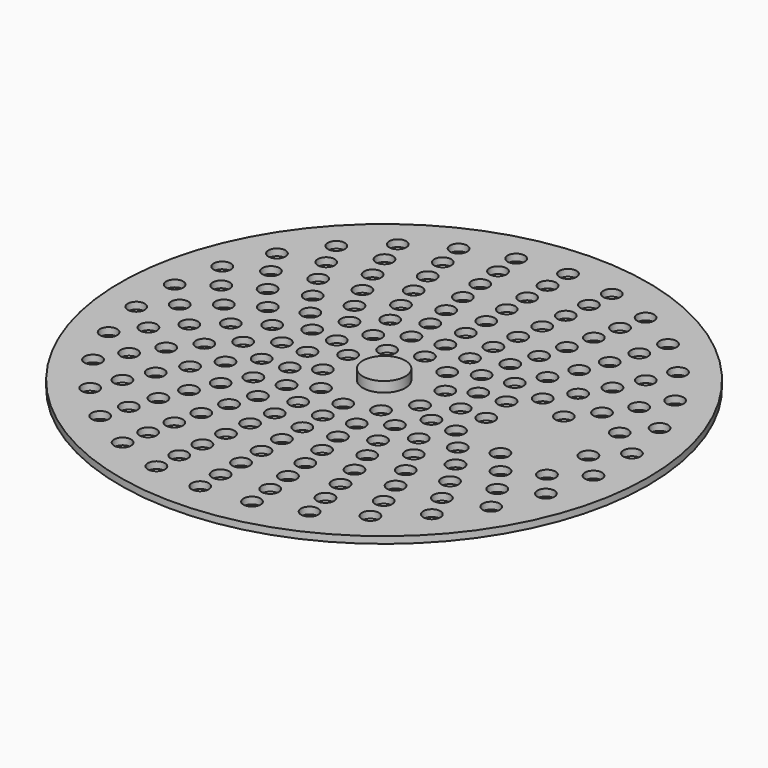
from build123d import *

# Parameters (mm, degrees)
F0_R     = 15.5
F0_R_2   = 0.5
F0_R_3   = 1.25
F1_DEPTH = 0.4
F3_DEPTH = 1


with BuildPart() as f1:
    # F0 (on Top) → F1 (new body)
    with BuildSketch(Plane.XY):
        Circle(F0_R)
        with Locations((-7.935101, -10.921729)):
            Circle(F0_R_2, mode=Mode.SUBTRACT)
        with Locations((-10.032455, -9.033263)):
            Circle(F0_R_2, mode=Mode.SUBTRACT)
        with Locations((-5.490945, -12.332864)):
            Circle(F0_R_2, mode=Mode.SUBTRACT)
        with Locations((-2.806808, -13.204993)):
            Circle(F0_R_2, mode=Mode.SUBTRACT)
        with Locations((-2.670251, -11.699135)):
            Circle(F0_R_2, mode=Mode.SUBTRACT)
        with Locations((-5.206605, -10.811626)):
            Circle(F0_R_2, mode=Mode.SUBTRACT)
        with Locations((-7.481878, -9.381978)):
            Circle(F0_R_2, mode=Mode.SUBTRACT)
        with Locations((-6.962788, -7.859363)):
            Circle(F0_R_2, mode=Mode.SUBTRACT)
        with Locations((-4.879593, -9.297288)):
            Circle(F0_R_2, mode=Mode.SUBTRACT)
        with Locations((-4.5, -7.794229)):
            Circle(F0_R_2, mode=Mode.SUBTRACT)
        with Locations((-2.512814, -10.194889)):
            Circle(F0_R_2, mode=Mode.SUBTRACT)
        with Locations((-2.329371, -8.693332)):
            Circle(F0_R_2, mode=Mode.SUBTRACT)
        with Locations((-11.691343, -6.75)):
            Circle(F0_R_2, mode=Mode.SUBTRACT)
        with Locations((-12.839263, -4.171729)):
            Circle(F0_R_2, mode=Mode.SUBTRACT)
        with Locations((-9.381978, -7.481878)):
            Circle(F0_R_2, mode=Mode.SUBTRACT)
        with Locations((-8.641331, -5.96468)):
            Circle(F0_R_2, mode=Mode.SUBTRACT)
        with Locations((-10.811626, -5.206605)):
            Circle(F0_R_2, mode=Mode.SUBTRACT)
        with Locations((-7.794229, -4.5)):
            Circle(F0_R_2, mode=Mode.SUBTRACT)
        with Locations((-11.699135, -2.670251)):
            Circle(F0_R_2, mode=Mode.SUBTRACT)
        with Locations((-13.426046, -1.411134)):
            Circle(F0_R_2, mode=Mode.SUBTRACT)
        with Locations((-9.817671, -3.723351)):
            Circle(F0_R_2, mode=Mode.SUBTRACT)
        with Locations((-8.693332, -2.329371)):
            Circle(F0_R_2, mode=Mode.SUBTRACT)
        with Locations((-10.423443, -1.265635)):
            Circle(F0_R_2, mode=Mode.SUBTRACT)
        with Locations((-6.363961, -6.363961)):
            Circle(F0_R_2, mode=Mode.SUBTRACT)
        with Locations((-4.054806, -6.309401)):
            Circle(F0_R_2, mode=Mode.SUBTRACT)
        with Locations((-5.668122, -4.911456)):
            Circle(F0_R_2, mode=Mode.SUBTRACT)
        with Locations((-2.112994, -7.196197)):
            Circle(F0_R_2, mode=Mode.SUBTRACT)
        with Locations((-3.526712, -4.854102)):
            Circle(F0_R_2, mode=Mode.SUBTRACT)
        with Locations((-1.854102, -5.706339)):
            Circle(F0_R_2, mode=Mode.SUBTRACT)
        with Locations((-1.722075, -4.157458)):
            Circle(F0_R_2, mode=Mode.SUBTRACT)
        with Locations((-6.82224, -3.115613)):
            Circle(F0_R_2, mode=Mode.SUBTRACT)
        with Locations((-4.854102, -3.526712)):
            Circle(F0_R_2, mode=Mode.SUBTRACT)
        with Locations((-7.423661, -1.067361)):
            Circle(F0_R_2, mode=Mode.SUBTRACT)
        with Locations((-5.706339, -1.854102)):
            Circle(F0_R_2, mode=Mode.SUBTRACT)
        with Locations((-4.157458, -1.722075)):
            Circle(F0_R_2, mode=Mode.SUBTRACT)
        with Locations((-3.181981, -3.181981)):
            Circle(F0_R_2, mode=Mode.SUBTRACT)
        with Locations((-1.763356, -2.427051)):
            Circle(F0_R_2, mode=Mode.SUBTRACT)
        with Locations((-2.85317, -0.927051)):
            Circle(F0_R_2, mode=Mode.SUBTRACT)
        with Locations((0, -13.5)):
            Circle(F0_R_2, mode=Mode.SUBTRACT)
        with Locations((0, -12)):
            Circle(F0_R_2, mode=Mode.SUBTRACT)
        with Locations((2.806808, -13.204993)):
            Circle(F0_R_2, mode=Mode.SUBTRACT)
        with Locations((2.670251, -11.699135)):
            Circle(F0_R_2, mode=Mode.SUBTRACT)
        with Locations((5.490945, -12.332864)):
            Circle(F0_R_2, mode=Mode.SUBTRACT)
        with Locations((0, -10.5)):
            Circle(F0_R_2, mode=Mode.SUBTRACT)
        with Locations((2.512814, -10.194889)):
            Circle(F0_R_2, mode=Mode.SUBTRACT)
        with Locations((0, -9)):
            Circle(F0_R_2, mode=Mode.SUBTRACT)
        with Locations((2.329371, -8.693332)):
            Circle(F0_R_2, mode=Mode.SUBTRACT)
        with Locations((5.206605, -10.811626)):
            Circle(F0_R_2, mode=Mode.SUBTRACT)
        with Locations((4.879593, -9.297288)):
            Circle(F0_R_2, mode=Mode.SUBTRACT)
        with Locations((4.5, -7.794229)):
            Circle(F0_R_2, mode=Mode.SUBTRACT)
        with Locations((7.481878, -9.381978)):
            Circle(F0_R_2, mode=Mode.SUBTRACT)
        with Locations((6.962788, -7.859363)):
            Circle(F0_R_2, mode=Mode.SUBTRACT)
        with Locations((7.935101, -10.921729)):
            Circle(F0_R_2, mode=Mode.SUBTRACT)
        with Locations((10.032455, -9.033263)):
            Circle(F0_R_2, mode=Mode.SUBTRACT)
        with Locations((0, -7.5)):
            Circle(F0_R_2, mode=Mode.SUBTRACT)
        with Locations((0, -6)):
            Circle(F0_R_2, mode=Mode.SUBTRACT)
        with Locations((2.112994, -7.196197)):
            Circle(F0_R_2, mode=Mode.SUBTRACT)
        with Locations((1.854102, -5.706339)):
            Circle(F0_R_2, mode=Mode.SUBTRACT)
        with Locations((0, -4.5)):
            Circle(F0_R_2, mode=Mode.SUBTRACT)
        with Locations((1.722075, -4.157458)):
            Circle(F0_R_2, mode=Mode.SUBTRACT)
        with Locations((3.526712, -4.854102)):
            Circle(F0_R_2, mode=Mode.SUBTRACT)
        with Locations((4.054806, -6.309401)):
            Circle(F0_R_2, mode=Mode.SUBTRACT)
        with Locations((6.363961, -6.363961)):
            Circle(F0_R_2, mode=Mode.SUBTRACT)
        with Locations((5.668122, -4.911456)):
            Circle(F0_R_2, mode=Mode.SUBTRACT)
        with Locations((0, -3)):
            Circle(F0_R_2, mode=Mode.SUBTRACT)
        with Locations((1.763356, -2.427051)):
            Circle(F0_R_2, mode=Mode.SUBTRACT)
        with Locations((3.181981, -3.181981)):
            Circle(F0_R_2, mode=Mode.SUBTRACT)
        with Locations((2.85317, -0.927051)):
            Circle(F0_R_2, mode=Mode.SUBTRACT)
        with Locations((4.854102, -3.526712)):
            Circle(F0_R_2, mode=Mode.SUBTRACT)
        with Locations((6.82224, -3.115613)):
            Circle(F0_R_2, mode=Mode.SUBTRACT)
        with Locations((4.157458, -1.722075)):
            Circle(F0_R_2, mode=Mode.SUBTRACT)
        with Locations((5.706339, -1.854102)):
            Circle(F0_R_2, mode=Mode.SUBTRACT)
        with Locations((9.381978, -7.481878)):
            Circle(F0_R_2, mode=Mode.SUBTRACT)
        with Locations((8.641331, -5.96468)):
            Circle(F0_R_2, mode=Mode.SUBTRACT)
        with Locations((7.794229, -4.5)):
            Circle(F0_R_2, mode=Mode.SUBTRACT)
        with Locations((10.811626, -5.206605)):
            Circle(F0_R_2, mode=Mode.SUBTRACT)
        with Locations((11.691343, -6.75)):
            Circle(F0_R_2, mode=Mode.SUBTRACT)
        with Locations((12.839263, -4.171729)):
            Circle(F0_R_2, mode=Mode.SUBTRACT)
        with Locations((8.693332, -2.329371)):
            Circle(F0_R_2, mode=Mode.SUBTRACT)
        with Locations((9.817671, -3.723351)):
            Circle(F0_R_2, mode=Mode.SUBTRACT)
        with Locations((11.699135, -2.670251)):
            Circle(F0_R_2, mode=Mode.SUBTRACT)
        with Locations((13.426046, -1.411134)):
            Circle(F0_R_2, mode=Mode.SUBTRACT)
        with Locations((-12, 0)):
            Circle(F0_R_2, mode=Mode.SUBTRACT)
        with Locations((-13.426046, 1.411134)):
            Circle(F0_R_2, mode=Mode.SUBTRACT)
        with Locations((-11.699135, 2.670251)):
            Circle(F0_R_2, mode=Mode.SUBTRACT)
        with Locations((-10.423443, 1.265635)):
            Circle(F0_R_2, mode=Mode.SUBTRACT)
        with Locations((-9, 0)):
            Circle(F0_R_2, mode=Mode.SUBTRACT)
        with Locations((-9.817671, 3.723351)):
            Circle(F0_R_2, mode=Mode.SUBTRACT)
        with Locations((-8.693332, 2.329371)):
            Circle(F0_R_2, mode=Mode.SUBTRACT)
        with Locations((-12.839263, 4.171729)):
            Circle(F0_R_2, mode=Mode.SUBTRACT)
        with Locations((-11.691343, 6.75)):
            Circle(F0_R_2, mode=Mode.SUBTRACT)
        with Locations((-10.811626, 5.206605)):
            Circle(F0_R_2, mode=Mode.SUBTRACT)
        with Locations((-7.794229, 4.5)):
            Circle(F0_R_2, mode=Mode.SUBTRACT)
        with Locations((-8.641331, 5.96468)):
            Circle(F0_R_2, mode=Mode.SUBTRACT)
        with Locations((-9.381978, 7.481878)):
            Circle(F0_R_2, mode=Mode.SUBTRACT)
        with Locations((-6, 0)):
            Circle(F0_R_2, mode=Mode.SUBTRACT)
        with Locations((-7.423661, 1.067361)):
            Circle(F0_R_2, mode=Mode.SUBTRACT)
        with Locations((-4.5, 0)):
            Circle(F0_R_2, mode=Mode.SUBTRACT)
        with Locations((-5.706339, 1.854102)):
            Circle(F0_R_2, mode=Mode.SUBTRACT)
        with Locations((-4.157458, 1.722075)):
            Circle(F0_R_2, mode=Mode.SUBTRACT)
        with Locations((-6.82224, 3.115613)):
            Circle(F0_R_2, mode=Mode.SUBTRACT)
        with Locations((-4.854102, 3.526712)):
            Circle(F0_R_2, mode=Mode.SUBTRACT)
        with Locations((-2.85317, 0.927051)):
            Circle(F0_R_2, mode=Mode.SUBTRACT)
        with Locations((-3.181981, 3.181981)):
            Circle(F0_R_2, mode=Mode.SUBTRACT)
        with Locations((-1.763356, 2.427051)):
            Circle(F0_R_2, mode=Mode.SUBTRACT)
        with Locations((-5.668122, 4.911456)):
            Circle(F0_R_2, mode=Mode.SUBTRACT)
        with Locations((-6.363961, 6.363961)):
            Circle(F0_R_2, mode=Mode.SUBTRACT)
        with Locations((-4.054806, 6.309401)):
            Circle(F0_R_2, mode=Mode.SUBTRACT)
        with Locations((-3.526712, 4.854102)):
            Circle(F0_R_2, mode=Mode.SUBTRACT)
        with Locations((-1.722075, 4.157458)):
            Circle(F0_R_2, mode=Mode.SUBTRACT)
        with Locations((-1.854102, 5.706339)):
            Circle(F0_R_2, mode=Mode.SUBTRACT)
        with Locations((-2.112994, 7.196197)):
            Circle(F0_R_2, mode=Mode.SUBTRACT)
        with Locations((-10.032455, 9.033263)):
            Circle(F0_R_2, mode=Mode.SUBTRACT)
        with Locations((-7.935101, 10.921729)):
            Circle(F0_R_2, mode=Mode.SUBTRACT)
        with Locations((-6.962788, 7.859363)):
            Circle(F0_R_2, mode=Mode.SUBTRACT)
        with Locations((-7.481878, 9.381978)):
            Circle(F0_R_2, mode=Mode.SUBTRACT)
        with Locations((-4.5, 7.794229)):
            Circle(F0_R_2, mode=Mode.SUBTRACT)
        with Locations((-4.879593, 9.297288)):
            Circle(F0_R_2, mode=Mode.SUBTRACT)
        with Locations((-5.206605, 10.811626)):
            Circle(F0_R_2, mode=Mode.SUBTRACT)
        with Locations((-2.329371, 8.693332)):
            Circle(F0_R_2, mode=Mode.SUBTRACT)
        with Locations((-2.512814, 10.194889)):
            Circle(F0_R_2, mode=Mode.SUBTRACT)
        with Locations((-5.490945, 12.332864)):
            Circle(F0_R_2, mode=Mode.SUBTRACT)
        with Locations((-2.670251, 11.699135)):
            Circle(F0_R_2, mode=Mode.SUBTRACT)
        with Locations((-2.806808, 13.204993)):
            Circle(F0_R_2, mode=Mode.SUBTRACT)
        Circle(F0_R_3, mode=Mode.SUBTRACT)
        with Locations((2.85317, 0.927051)):
            Circle(F0_R_2, mode=Mode.SUBTRACT)
        with Locations((1.763356, 2.427051)):
            Circle(F0_R_2, mode=Mode.SUBTRACT)
        with Locations((0, 3)):
            Circle(F0_R_2, mode=Mode.SUBTRACT)
        with Locations((3.181981, 3.181981)):
            Circle(F0_R_2, mode=Mode.SUBTRACT)
        with Locations((4.5, 0)):
            Circle(F0_R_2, mode=Mode.SUBTRACT)
        with Locations((4.157458, 1.722075)):
            Circle(F0_R_2, mode=Mode.SUBTRACT)
        with Locations((5.706339, 1.854102)):
            Circle(F0_R_2, mode=Mode.SUBTRACT)
        with Locations((6, 0)):
            Circle(F0_R_2, mode=Mode.SUBTRACT)
        with Locations((4.854102, 3.526712)):
            Circle(F0_R_2, mode=Mode.SUBTRACT)
        with Locations((6.82224, 3.115613)):
            Circle(F0_R_2, mode=Mode.SUBTRACT)
        with Locations((0, 4.5)):
            Circle(F0_R_2, mode=Mode.SUBTRACT)
        with Locations((1.722075, 4.157458)):
            Circle(F0_R_2, mode=Mode.SUBTRACT)
        with Locations((1.854102, 5.706339)):
            Circle(F0_R_2, mode=Mode.SUBTRACT)
        with Locations((3.526712, 4.854102)):
            Circle(F0_R_2, mode=Mode.SUBTRACT)
        with Locations((0, 6)):
            Circle(F0_R_2, mode=Mode.SUBTRACT)
        with Locations((0, 7.5)):
            Circle(F0_R_2, mode=Mode.SUBTRACT)
        with Locations((2.112994, 7.196197)):
            Circle(F0_R_2, mode=Mode.SUBTRACT)
        with Locations((5.668122, 4.911456)):
            Circle(F0_R_2, mode=Mode.SUBTRACT)
        with Locations((4.054806, 6.309401)):
            Circle(F0_R_2, mode=Mode.SUBTRACT)
        with Locations((6.363961, 6.363961)):
            Circle(F0_R_2, mode=Mode.SUBTRACT)
        with Locations((8.693332, 2.329371)):
            Circle(F0_R_2, mode=Mode.SUBTRACT)
        with Locations((9.817671, 3.723351)):
            Circle(F0_R_2, mode=Mode.SUBTRACT)
        with Locations((12, 0)):
            Circle(F0_R_2, mode=Mode.SUBTRACT)
        with Locations((13.426046, 1.411134)):
            Circle(F0_R_2, mode=Mode.SUBTRACT)
        with Locations((11.699135, 2.670251)):
            Circle(F0_R_2, mode=Mode.SUBTRACT)
        with Locations((7.794229, 4.5)):
            Circle(F0_R_2, mode=Mode.SUBTRACT)
        with Locations((10.811626, 5.206605)):
            Circle(F0_R_2, mode=Mode.SUBTRACT)
        with Locations((8.641331, 5.96468)):
            Circle(F0_R_2, mode=Mode.SUBTRACT)
        with Locations((9.381978, 7.481878)):
            Circle(F0_R_2, mode=Mode.SUBTRACT)
        with Locations((12.839263, 4.171729)):
            Circle(F0_R_2, mode=Mode.SUBTRACT)
        with Locations((11.691343, 6.75)):
            Circle(F0_R_2, mode=Mode.SUBTRACT)
        with Locations((0, 9)):
            Circle(F0_R_2, mode=Mode.SUBTRACT)
        with Locations((2.329371, 8.693332)):
            Circle(F0_R_2, mode=Mode.SUBTRACT)
        with Locations((0, 10.5)):
            Circle(F0_R_2, mode=Mode.SUBTRACT)
        with Locations((2.512814, 10.194889)):
            Circle(F0_R_2, mode=Mode.SUBTRACT)
        with Locations((4.5, 7.794229)):
            Circle(F0_R_2, mode=Mode.SUBTRACT)
        with Locations((4.879593, 9.297288)):
            Circle(F0_R_2, mode=Mode.SUBTRACT)
        with Locations((6.962788, 7.859363)):
            Circle(F0_R_2, mode=Mode.SUBTRACT)
        with Locations((7.481878, 9.381978)):
            Circle(F0_R_2, mode=Mode.SUBTRACT)
        with Locations((5.206605, 10.811626)):
            Circle(F0_R_2, mode=Mode.SUBTRACT)
        with Locations((0, 12)):
            Circle(F0_R_2, mode=Mode.SUBTRACT)
        with Locations((0, 13.5)):
            Circle(F0_R_2, mode=Mode.SUBTRACT)
        with Locations((2.670251, 11.699135)):
            Circle(F0_R_2, mode=Mode.SUBTRACT)
        with Locations((2.806808, 13.204993)):
            Circle(F0_R_2, mode=Mode.SUBTRACT)
        with Locations((5.490945, 12.332864)):
            Circle(F0_R_2, mode=Mode.SUBTRACT)
        with Locations((10.032455, 9.033263)):
            Circle(F0_R_2, mode=Mode.SUBTRACT)
        with Locations((7.935101, 10.921729)):
            Circle(F0_R_2, mode=Mode.SUBTRACT)
    extrude(amount=F1_DEPTH)

    # F0 (on Top) → F3 (join)
    with BuildSketch(Plane.XY):
        Circle(F0_R_3)
    extrude(amount=F3_DEPTH)


solid = f1.part
